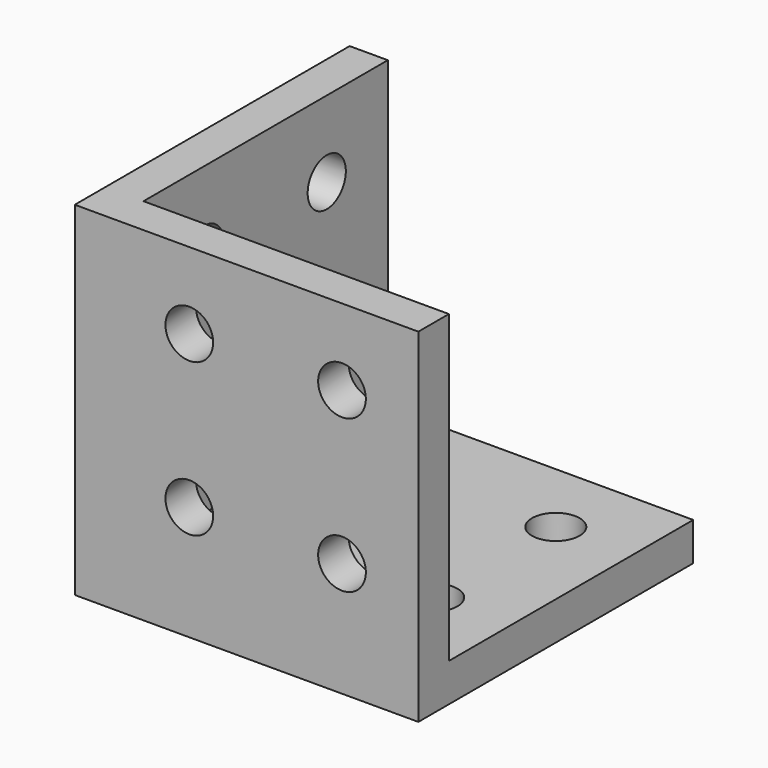
from build123d import *

# Parameters (mm, degrees)
F1_DEPTH = 28.575
F0_W     = 25.4
F0_H     = 25.4
F0_R     = 1.984375
F2_DEPTH = 3.175
F3_R     = 1.984375
F5_DEPTH = 25.4
F4_R     = 1.984375
F6_DEPTH = 25.4


with BuildPart() as f1:
    # F0 (on Top) → F1 (new body)
    with BuildSketch(Plane.XY):
        Polygon((-11.1125, 12.7), (-14.2875, 12.7), (-14.2875, -12.7), (-14.2875, -15.875), (14.2875, -15.875), (14.2875, -12.7), (-11.1125, -12.7), align=None)
    extrude(amount=F1_DEPTH)

    # F0 (on Top) → F2 (join)
    with BuildSketch(Plane.XY):
        with Locations((1.5875, 0)):
            Rectangle(F0_W, F0_H)
        with Locations((-4.7625, -6.35)):
            Circle(F0_R, mode=Mode.SUBTRACT)
        with Locations((7.9375, -6.35)):
            Circle(F0_R, mode=Mode.SUBTRACT)
        with Locations((-4.7625, 6.35)):
            Circle(F0_R, mode=Mode.SUBTRACT)
        with Locations((7.9375, 6.35)):
            Circle(F0_R, mode=Mode.SUBTRACT)
    extrude(amount=F2_DEPTH)

    # F3 (on face) → F5 (cut)
    with BuildSketch(Plane(origin=(-14.2875, 0, 0), x_dir=(0, -1, 0), z_dir=(-1, 0, 0))):
        with Locations((-6.35, 22.225)):
            Circle(F3_R)
        with Locations((6.35, 22.225)):
            Circle(F3_R)
        with Locations((6.35, 9.525)):
            Circle(F3_R)
        with Locations((-6.35, 9.525)):
            Circle(F3_R)
    extrude(amount=-F5_DEPTH, mode=Mode.SUBTRACT)

    # F4 (on face) → F6 (cut)
    with BuildSketch(Plane.XZ.offset(15.875)):
        with Locations((7.9375, 22.225)):
            Circle(F4_R)
        with Locations((7.9375, 9.525)):
            Circle(F4_R)
        with Locations((-4.7625, 9.525)):
            Circle(F4_R)
        with Locations((-4.7625, 22.225)):
            Circle(F4_R)
    extrude(amount=-F6_DEPTH, mode=Mode.SUBTRACT)


solid = f1.part
